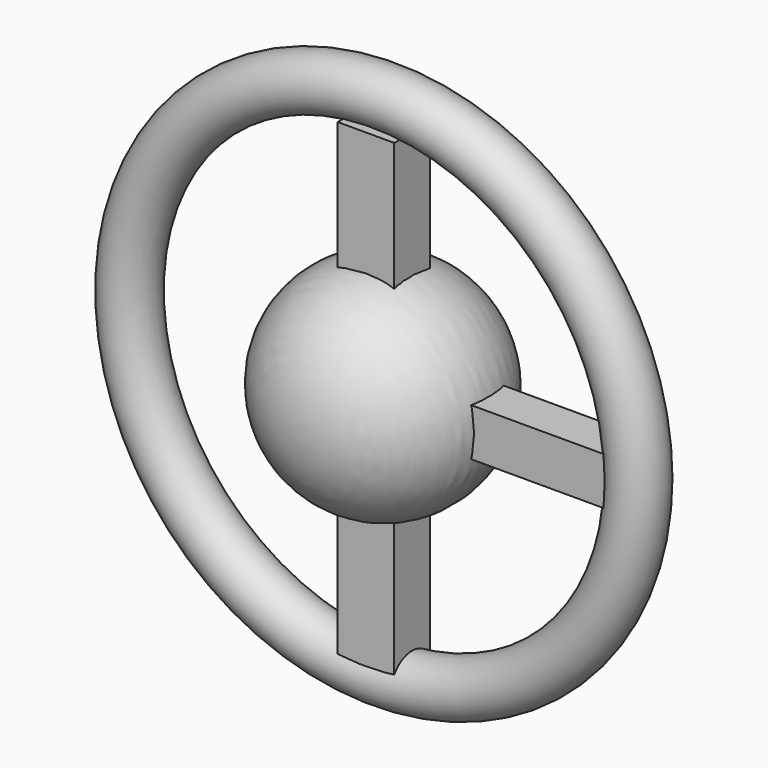
from build123d import *

# Parameters (mm, degrees)
F2_R     = 6.526699
F5_W     = 13.757374
F5_H     = 10.861086
F6_DEPTH = 56.134
F7_DEPTH = 64.008
F8_W     = 10.137014
F8_H     = 11.585158
F9_DEPTH = 58.674


with BuildPart() as f1:
    # F0 (on Top) → F1 (revolve)
    with BuildSketch(Plane.XY):
        with BuildLine():
            Line((0, -25.704572), (0, 25.052561))
            ThreePointArc((0, 25.052561), (-26.443245, -0.326005), (0, -25.704572))
        make_face()
    revolve(axis=Axis((0, -0.326005, 0), (0, 1, 0)))


with BuildPart() as f4:
    # F4: sweep along a path in F3
    with BuildLine(Plane.XZ) as f4_path:
        CenterArc((0, 0), 57.473745, 0, 360)
    # F2 (on Top) → F4 (sweep)
    with BuildSketch(Plane.XY):
        with Locations((-61.908189, 0)):
            Circle(F2_R)
    sweep(path=f4_path.line)


with BuildPart() as f6:
    # F5 (on Top) → F6 (new body)
    with BuildSketch(Plane.XY):
        Rectangle(F5_W, F5_H)
    extrude(amount=F6_DEPTH)


with BuildPart() as f7:
    # F5 (on Top) → F7 (new body)
    with BuildSketch(Plane.XY):
        Rectangle(F5_W, F5_H)
    extrude(amount=-F7_DEPTH)


with BuildPart() as f9:
    # F8 (on Right) → F9 (new body)
    with BuildSketch(Plane.YZ):
        Rectangle(F8_W, F8_H)
    extrude(amount=F9_DEPTH)


solid = Compound([f1.part, f4.part, f6.part, f7.part, f9.part])
